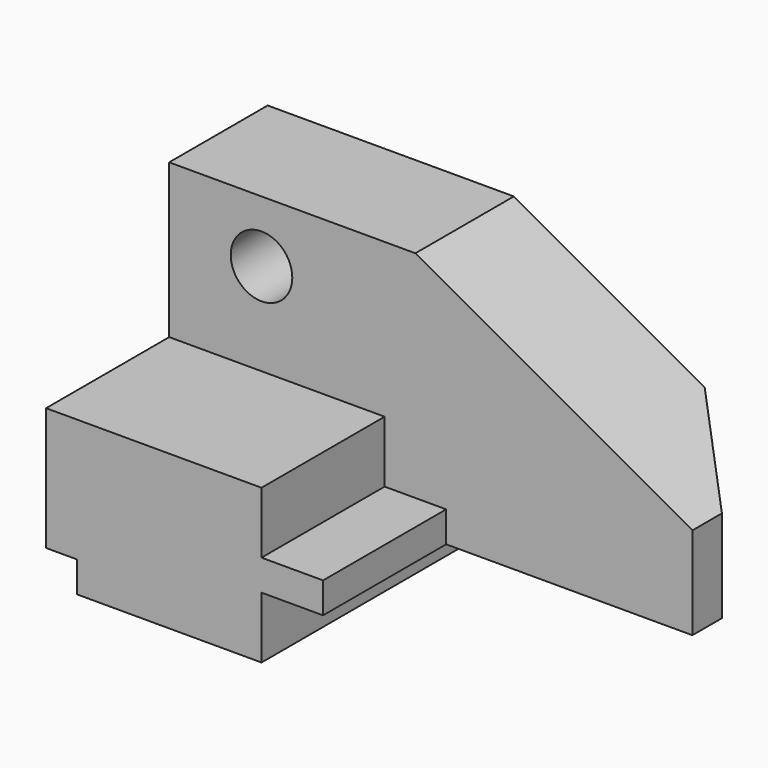
from build123d import *

# Parameters (mm, degrees)
F1_DEPTH  = 25.4
F2_W      = 57.15
F2_H      = 31.75
F3_DEPTH  = 57.15
F4_W      = 6.35
F4_H      = 6.35
F5_DEPTH  = 57.151
F4_W_2    = 12.7
F4_H_2    = 12.7
F6_DEPTH  = 31.75
F6_FACE_W = 12.7
F6_FACE_H = 12.7
F7_DEPTH  = 25.401
F8_R      = 6.35
F9_DEPTH  = 25.401
F10_SIZE  = 17.78


with BuildPart() as f1:
    # F0 (on Front) → F1 (new body)
    with BuildSketch(Plane.XZ):
        Polygon((0, 50.8), (0, 0), (107.95, 0), (107.95, 19.05), (50.8, 50.8), align=None)
    extrude(amount=F1_DEPTH)

    # F2 (on Front) → F3 (join)
    with BuildSketch(Plane.XZ):
        with Locations((28.575, 3.175)):
            Rectangle(F2_W, F2_H)
    extrude(amount=F3_DEPTH)

    # F4 (on face) → F5 (cut, through all)
    with BuildSketch(Plane.XZ.offset(57.15)):
        with Locations((3.175, -9.525)):
            Rectangle(F4_W, F4_H)
    extrude(amount=-F5_DEPTH, mode=Mode.SUBTRACT)

    # F4 (on face) → F6 (cut)
    with BuildSketch(Plane.XZ.offset(57.15)):
        with Locations((50.8, 12.7)):
            Rectangle(F4_W_2, F4_H_2)
        with Locations((50.8, -6.35)):
            Rectangle(F4_W_2, F4_H_2)
    extrude(amount=-F6_DEPTH, mode=Mode.SUBTRACT)

    # F6_face (on face) → F7 (cut, through all)
    with BuildSketch(Plane(origin=(50.8, -25.4, -6.35), x_dir=(1, 0, 0), z_dir=(0, -1, 0))):
        Rectangle(F6_FACE_W, F6_FACE_H)
    extrude(amount=-F7_DEPTH, mode=Mode.SUBTRACT)

    # F8 (on face) → F9 (cut, through all)
    with BuildSketch(Plane.XZ.offset(25.4)):
        with Locations((19.05, 38.1)):
            Circle(F8_R)
    extrude(amount=-F9_DEPTH, mode=Mode.SUBTRACT)

    # F10
    f10_edges = [f1.edges().sort_by_distance(p)[0] for p in [
        (107.95, 0, 9.525),
    ]]
    chamfer(f10_edges, length=F10_SIZE)


solid = f1.part
